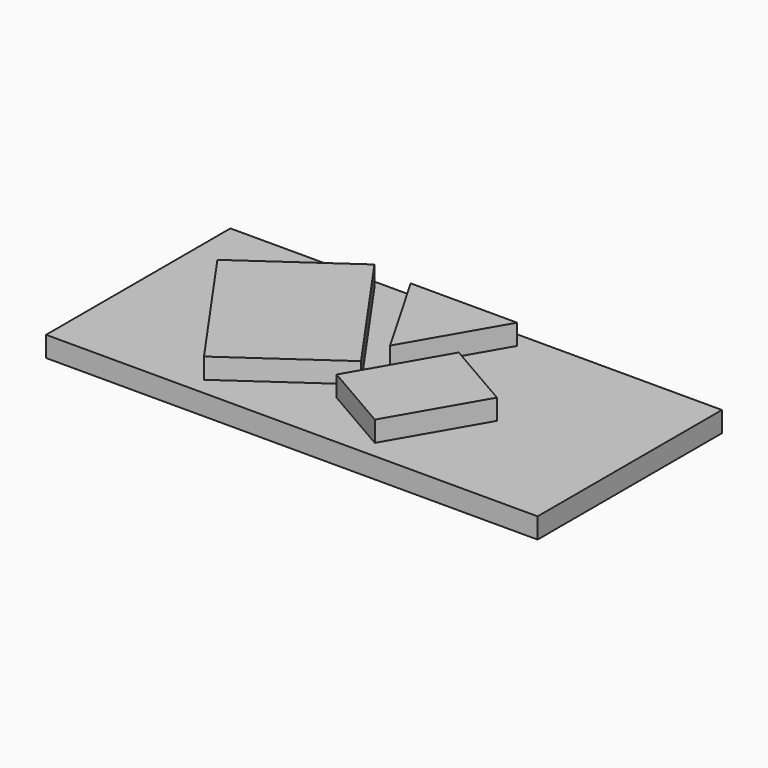
from build123d import *

# Parameters (mm, degrees)
F0_W     = 609.6
F0_H     = 457.2
F1_DEPTH = 25.4
F3_DEPTH = 25.4
F4_W     = 171.45
F4_H     = 25.4
F5_DEPTH = 609.601


with BuildPart() as f1:
    # F0 (on Top) → F1 (new body)
    with BuildSketch(Plane.XY):
        Rectangle(F0_W, F0_H)
    extrude(amount=F1_DEPTH)

    # F4 (on face) → F5 (cut, through all)
    with BuildSketch(Plane.YZ.offset(304.8)):
        with Locations((142.875, 12.7)):
            Rectangle(F4_W, F4_H)
    extrude(amount=-F5_DEPTH, mode=Mode.SUBTRACT)


with BuildPart() as f3:
    # F2 (on face) → F3 (new body)
    with BuildSketch(Plane.XY.offset(25.4)):
        Polygon((0, -76.2), (65.991136, 38.1), (-65.991136, 38.1), align=None)
        Polygon((-118.146342, 47.08458), (-242.985113, -40.328469), (-126.434381, -206.780165), (-1.59561, -119.367116), align=None)
        Polygon((-2.554, -155.980165), (85.434181, -206.780165), (148.934181, -96.794938), (60.946, -45.994938), align=None)
    extrude(amount=F3_DEPTH)


solid = Compound([f1.part, f3.part])
